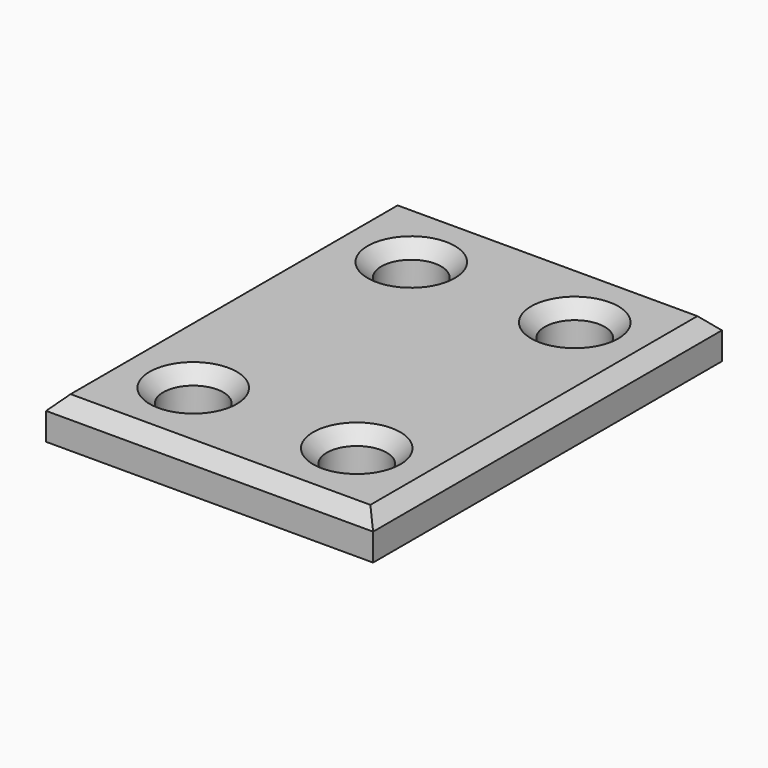
from build123d import *

# Parameters (mm, degrees)
F0_W     = 12
F0_H     = 16
F0_R     = 1.1
F1_DEPTH = 1.5
F2_SIZE  = 0.5


with BuildPart() as f1:
    # F0 (on Top) → F1 (new body)
    with BuildSketch(Plane.XY):
        with Locations((6, 8)):
            Rectangle(F0_W, F0_H)
        with Locations((3, 3)):
            Circle(F0_R, mode=Mode.SUBTRACT)
        with Locations((9, 3)):
            Circle(F0_R, mode=Mode.SUBTRACT)
        with Locations((3, 13)):
            Circle(F0_R, mode=Mode.SUBTRACT)
        with Locations((9, 13)):
            Circle(F0_R, mode=Mode.SUBTRACT)
    extrude(amount=F1_DEPTH)

    # F2
    f2_edges = [f1.edges().sort_by_distance(p)[0] for p in [
        (0, 8, 1.5),
        (6, 0, 1.5),
        (12, 8, 1.5),
        (6, 16, 1.5),
        (1.9, 3, 1.5),
        (7.9, 3, 1.5),
        (1.9, 13, 1.5),
        (7.9, 13, 1.5),
    ]]
    chamfer(f2_edges, length=F2_SIZE)


solid = f1.part
